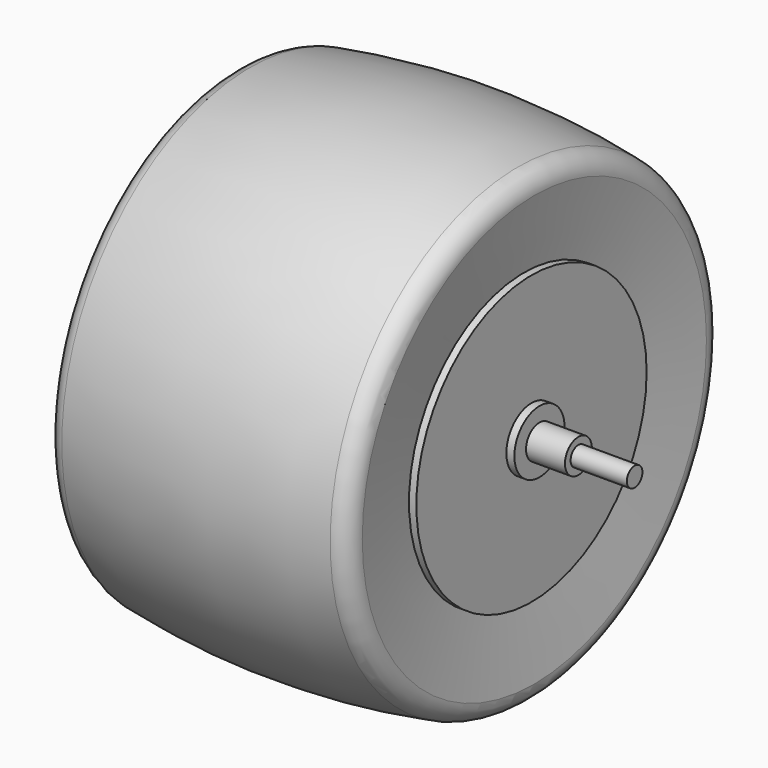
from build123d import *


with BuildPart() as f1:
    # F0 (on Top) → F1 (revolve)
    with BuildSketch(Plane.XY):
        with BuildLine():
            Line((11.76144, 120.397367), (11.76144, 115.128331))
            Line((11.76144, 115.128331), (271.76144, 115.128331))
            Line((271.76144, 115.128331), (271.76144, 120.128331))
            Line((271.76144, 120.128331), (242.850471, 120.128331))
            Line((242.850471, 120.128331), (242.850471, 123.77452))
            Line((242.850471, 123.77452), (222.850471, 123.77452))
            Line((222.850471, 123.77452), (222.850471, 131.259307))
            Line((222.850471, 131.259307), (218.737677, 131.259307))
            Line((218.737677, 131.259307), (218.737677, 189.114824))
            Line((218.737677, 189.114824), (214.96439, 189.114824))
            Line((214.96439, 189.114824), (220.195598, 225.696488))
            ThreePointArc((220.195598, 225.696488), (217.980175, 232.381506), (211.907725, 235.948427))
            ThreePointArc((211.907725, 235.948427), (142.967514, 241.885279), (74.020783, 236.024629))
            ThreePointArc((74.020783, 236.024629), (67.899117, 232.408126), (65.728222, 225.637521))
            Line((65.728222, 225.637521), (71.974896, 185.76562))
            Line((71.974896, 185.76562), (67.850471, 185.76562))
            Line((67.850471, 185.76562), (67.850471, 139.667943))
            Line((67.850471, 139.667943), (52.850471, 139.667943))
            Line((52.850471, 139.667943), (52.850471, 122.565307))
            Line((52.850471, 122.565307), (42.854126, 122.565307))
            Line((42.854126, 122.565307), (42.854126, 120.397367))
            Line((42.854126, 120.397367), (11.76144, 120.397367))
        make_face()
    revolve(axis=Axis((141.76144, 115.128331, 0), (1, 0, 0)))


solid = f1.part
